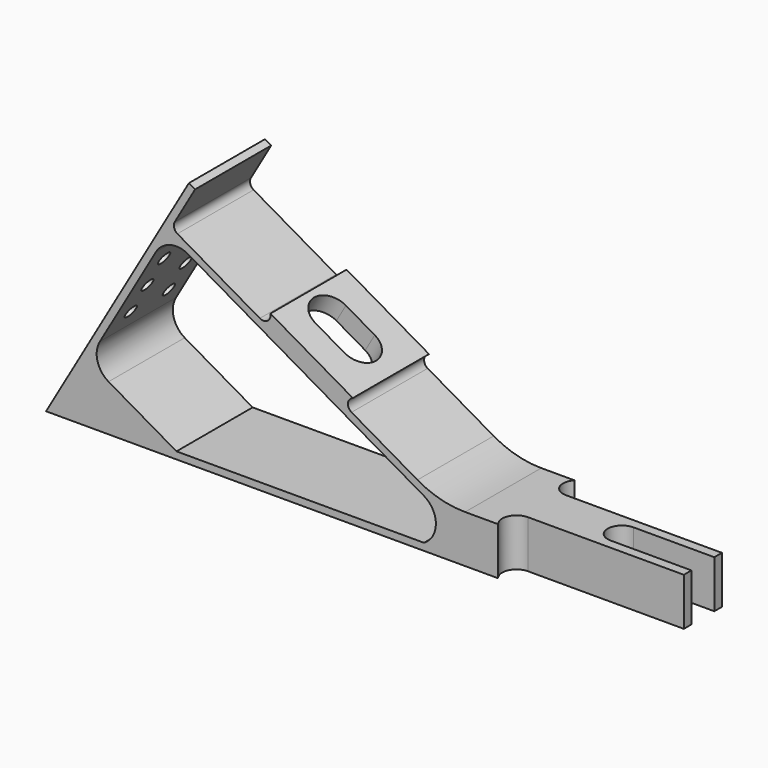
from build123d import *

# Parameters (mm, degrees)
F0_W     = 35
F0_H     = 10
F1_DEPTH = 10
F3_DEPTH = 4
F4_R     = 1.395
F5_DEPTH = 1.5
F4_R_2   = 5.5
F4_R_3   = 4.25
F6_DEPTH = 2
F7_DEPTH = 112.584302492
F9_DEPTH = 10.001


with BuildPart() as f1:
    # F0 (on Front) → F1 (new body, symmetric)
    with BuildSketch(Plane.XZ):
        with BuildLine():
            Line((30, 51.9615242271), (0, 0))
            Line((0, 0), (95, 0))
            Line((95, 0), (95, 10))
            Line((95, 10), (88.0384757729, 10))
            ThreePointArc((88.0384757729, 10), (82.8620948709, 10.6814834742), (78.0384757729, 12.6794919243))
            Line((78.0384757729, 12.6794919243), (64.1755840358, 20.6832362005))
            ThreePointArc((64.1755840358, 20.6832362005), (63.4335436954, 22.1365974171), (64.4573381993, 23.4073167043))
            Line((64.4573381993, 23.4073167043), (47.1368301236, 33.4073167043))
            ThreePointArc((47.1368301236, 33.4073167043), (46.5482521918, 31.8853250121), (44.918584287, 31.8012701892))
            Line((44.918584287, 31.8012701892), (27.5980762114, 41.8012701892))
            ThreePointArc((27.5980762114, 41.8012701892), (26.8991874719, 42.7120797272), (27.0490381057, 43.8503082949))
            Line((27.0490381057, 43.8503082949), (31.2990381057, 51.2115242271))
            Line((31.2990381057, 51.2115242271), (30, 51.9615242271))
        make_face()
        with BuildLine():
            Line((11.2990381057, 16.5705080757), (23.0490381057, 36.9221050646))
            ThreePointArc((23.0490381057, 36.9221050646), (26.0850698991, 39.2517341961), (29.8791651246, 38.7522320835))
            Line((29.8791651246, 38.7522320835), (79.4019237886, 10.1602540378))
            ThreePointArc((79.4019237886, 10.1602540378), (81.9019237886, 5.8301270189), (79.4019237886, 1.5))
            Line((79.4019237886, 1.5), (27.4019237886, 1.5))
            Line((27.4019237886, 1.5), (13.1291651246, 9.7403810568))
            ThreePointArc((13.1291651246, 9.7403810568), (10.7995359932, 12.7764128502), (11.2990381057, 16.5705080757))
        make_face(mode=Mode.SUBTRACT)
        with Locations((112.5, 5)):
            Rectangle(F0_W, F0_H)
    extrude(amount=F1_DEPTH, both=True)

    # F2 (on face) → F3 (cut)
    with BuildSketch(Plane(origin=(26.25, 0, 45.4663336987), x_dir=(0.8660254038, 0, -0.5), z_dir=(0.5, 0, 0.8660254038))):
        with BuildLine():
            ThreePointArc((29.5, 4), (25.5, 0), (29.5, -4))
            Line((29.5, -4), (36.5, -4))
            ThreePointArc((36.5, -4), (40.5, 0), (36.5, 4))
            Line((36.5, 4), (29.5, 4))
        make_face()
    extrude(amount=-F3_DEPTH, mode=Mode.SUBTRACT)

    # F4 (on face) → F5 (cut)
    with BuildSketch(Plane(origin=(0, 0, 0), x_dir=(0, -1, 0), z_dir=(-0.8660254038, 0, 0.5))):
        with Locations((-5, 39)):
            Circle(F4_R)
        with Locations((-5, 32)):
            Circle(F4_R)
        with Locations((5, 25)):
            Circle(F4_R)
        with Locations((5, 32)):
            Circle(F4_R)
        with Locations((5, 39)):
            Circle(F4_R)
        with Locations((-5, 25)):
            Circle(F4_R)
    extrude(amount=-F5_DEPTH, mode=Mode.SUBTRACT)

    # F4 (on face) → F6 (cut)
    with BuildSketch(Plane(origin=(0, 0, 0), x_dir=(0, -1, 0), z_dir=(-0.8660254038, 0, 0.5))):
        with Locations((0, 7.5)):
            Circle(F4_R_2)
        with Locations((0, 7.5)):
            Circle(F4_R_3, mode=Mode.SUBTRACT)
    extrude(amount=-F6_DEPTH, mode=Mode.SUBTRACT)

    # F7 (cut, through all): a face of the model
    f7_faces = [f1.faces().sort_by_distance(p)[0] for p in [
        (3.75, 0, 6.4951905284),
    ]]
    extrude(f7_faces, amount=-F7_DEPTH, mode=Mode.SUBTRACT)

    # F8 (on face) → F9 (cut, through all)
    with BuildSketch(Plane.XY.offset(10)):
        with BuildLine():
            Line((130, -10), (130, -5))
            Line((130, -5), (97.2360679775, -5))
            ThreePointArc((97.2360679775, -5), (94.49745519, -6.7752551286), (95, -10))
            Line((95, -10), (130, -10))
        make_face()
        with BuildLine():
            Line((130, -3), (130, 3))
            Line((130, 3), (113, 3))
            ThreePointArc((113, 3), (110, 0), (113, -3))
            Line((113, -3), (130, -3))
        make_face()
        with BuildLine():
            Line((97.2360679775, 5), (130, 5))
            Line((130, 5), (130, 10))
            Line((130, 10), (95, 10))
            ThreePointArc((95, 10), (94.49745519, 6.7752551286), (97.2360679775, 5))
        make_face()
    extrude(amount=-F9_DEPTH, mode=Mode.SUBTRACT)


solid = f1.part
